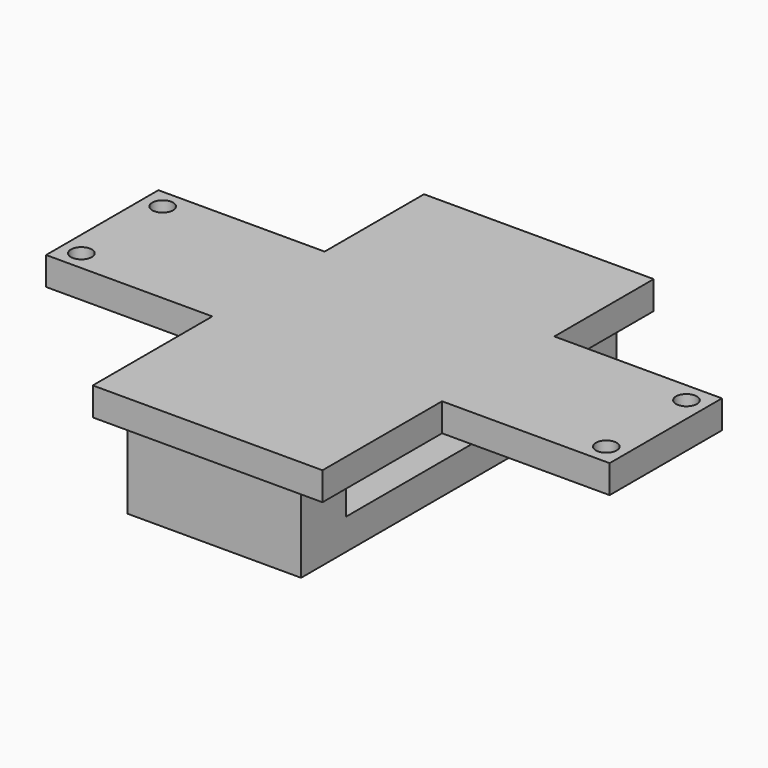
from build123d import *

# Parameters (mm, degrees)
F0_W     = 40.765519
F0_H     = 73.471674
F1_DEPTH = 5
F2_W     = 30.81081
F2_H     = 70
F3_DEPTH = 14
F4_W     = 35
F4_H     = 50.010137
F5_DEPTH = 8.5
F6_W     = 100
F6_H     = 24.910029
F7_DEPTH = 5
F8_R     = 1.85
F9_DEPTH = 25.4


with BuildPart() as f1:
    # F0 (on Top) → F1 (new body)
    with BuildSketch(Plane.XY):
        with Locations((4.975075, 16.320152)):
            Rectangle(F0_W, F0_H)
    extrude(amount=-F1_DEPTH)

    # F2 (on face) → F3 (join)
    with BuildSketch(Plane(origin=(0, 0, -5), x_dir=(1, 0, 0), z_dir=(0, 0, -1))):
        with Locations((5, -16.029622)):
            Rectangle(F2_W, F2_H)
        Polygon((10, -41.029622), (5, -41.029622), (0, -41.029622), (0, -22.373011), (10, -22.373011), align=None, mode=Mode.SUBTRACT)
        Polygon((0, 8.970378), (5, 8.970378), (10, 8.970378), (10, -11.889663), (0, -11.889663), align=None, mode=Mode.SUBTRACT)
    extrude(amount=F3_DEPTH)

    # F4 (on face) → F5 (cut)
    with BuildSketch(Plane(origin=(0, 0, -5), x_dir=(1, 0, 0), z_dir=(0, 0, -1))):
        with Locations((2.905405, -15.991903)):
            Rectangle(F4_W, F4_H)
    extrude(amount=F5_DEPTH, mode=Mode.SUBTRACT)

    # F6 (on face) → F7 (join)
    with BuildSketch(Plane(origin=(0, 0, -5), x_dir=(1, 0, 0), z_dir=(0, 0, -1))):
        with Locations((5.092296, -18.559826)):
            Rectangle(F6_W, F6_H)
    extrude(amount=-F7_DEPTH)

    # F8 (on face) → F9 (cut)
    with BuildSketch(Plane.XY):
        with Locations((-41.387634, 27.575926)):
            Circle(F8_R)
        with Locations((51.599746, 27.514396)):
            Circle(F8_R)
        with Locations((-41.413683, 9.564399)):
            Circle(F8_R)
        with Locations((51.624972, 9.70294)):
            Circle(F8_R)
    extrude(amount=-F9_DEPTH, mode=Mode.SUBTRACT)


solid = f1.part
